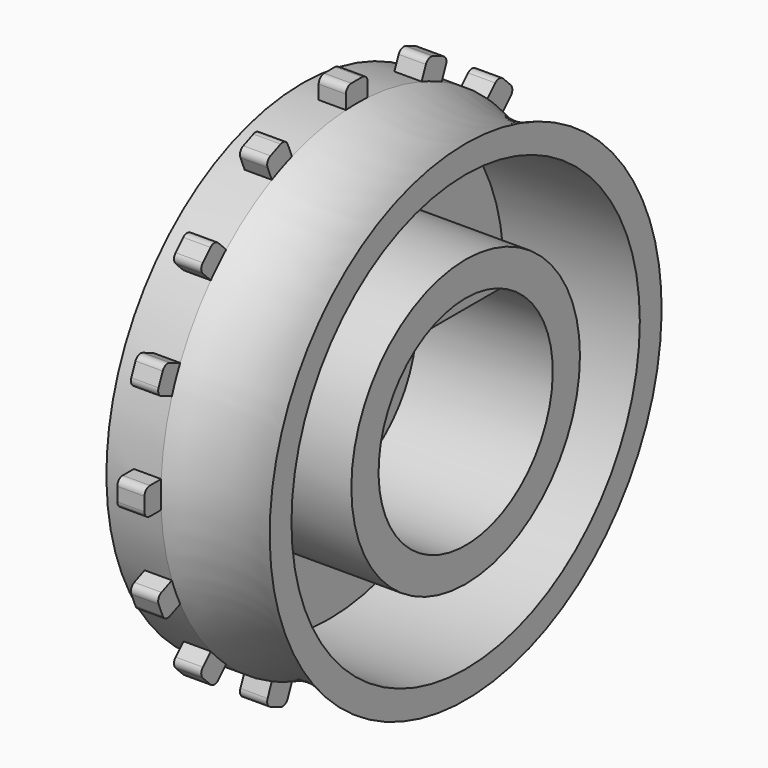
from build123d import *

# Parameters (mm, degrees)
F0_W     = 5
F0_H     = 1.25
F3_DEPTH = 1
F4_COUNT = 16
F4_ANGLE = 337.5
F7_DEPTH = 2.5


with BuildPart() as f1:
    # F0 (on Front) → F1 (revolve)
    with BuildSketch(Plane.XZ):
        with BuildLine():
            Line((0, 9), (-1, 9))
            Line((-1, 9), (-1.8, 0))
            Line((-1.8, 0), (0, 0))
            Line((0, 0), (0, 4))
            Line((0, 4), (0, 5.25))
            Line((0, 5.25), (0, 8))
            Line((0, 8), (5, 8))
            Line((5, 8), (5, 9))
            ThreePointArc((5, 9), (3, 8.582575695), (1, 9))
            Line((1, 9), (0, 9))
        make_face()
        with Locations((2.5, 4.625)):
            Rectangle(F0_W, F0_H)
    revolve(axis=Axis((5, 0, 0), (1, 0, 0)))

    # F2 (on Right) → F3 (join)
    with BuildSketch(Plane.YZ):
        with BuildLine():
            Line((-0.5, 9.5), (-0.5, 8.25))
            Line((-0.5, 8.25), (0.5, 8.25))
            Line((0.5, 8.25), (0.5, 9.5))
            ThreePointArc((0.5, 9.5), (0.4267766953, 9.6767766953), (0.25, 9.75))
            Line((0.25, 9.75), (-0.25, 9.75))
            ThreePointArc((-0.25, 9.75), (-0.4267766953, 9.6767766953), (-0.5, 9.5))
        make_face()
    f3 = extrude(amount=F3_DEPTH)

    # F4: F3 ×16 about axis
    f4_axis = Axis((-1, 0, 0), (1, 0, 0))
    for i in range(1, F4_COUNT):
        add(f3.rotate(f4_axis, i * F4_ANGLE / (F4_COUNT - 1)))

    # F6 (on offset) → F7 (join)
    with BuildSketch(Plane.YZ.offset(4)):
        with BuildLine():
            Line((-3.2525225542, 2.8314155061), (0, 2.8314155061))
            Line((0, 2.8314155061), (3.46874143, 2.8314155061))
            ThreePointArc((3.46874143, 2.8314155061), (0.1081094379, 4.4914928185), (-3.2525225542, 2.8314155061))
        make_face()
    extrude(amount=-F7_DEPTH)


solid = f1.part
